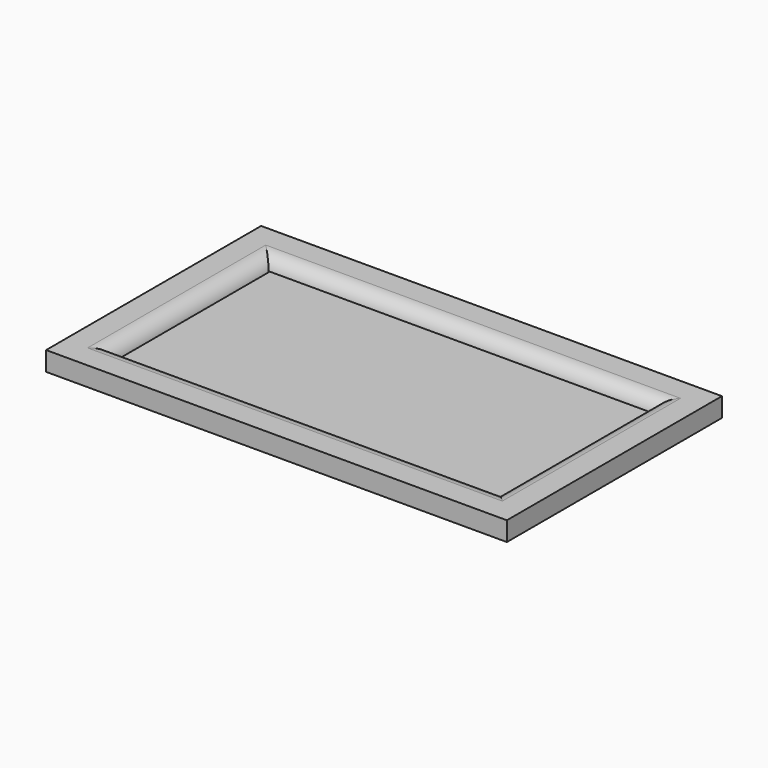
from build123d import *

# Parameters (mm, degrees)
F0_W     = 12.7
F0_H     = 12.7
F0_H_2   = 63.5
F0_W_2   = 127
F1_DEPTH = 6.35
F2_W     = 126.1163949966
F2_H     = 63.1982386112
F3_DEPTH = 2.54
F4_R     = 5.08
F5_R     = 5.08
F6_R     = 5.08
F7_R     = 5.08


with BuildPart() as f1:
    # F0 (on Top) → F1 (new body)
    with BuildSketch(Plane.XY):
        with Locations((-69.85, -38.1)):
            Rectangle(F0_W, F0_H)
        Polygon((-63.5, -31.75), (-63.5, -44.45), (76.2, -44.45), (76.2, -31.75), (63.5, -31.75), align=None)
        with Locations((-69.85, 0)):
            Rectangle(F0_W, F0_H_2)
        with Locations((69.85, 0)):
            Rectangle(F0_W, F0_H_2)
        with Locations((-69.85, 38.1)):
            Rectangle(F0_W, F0_H)
        with Locations((0, 38.1)):
            Rectangle(F0_W_2, F0_H)
        with Locations((69.85, 38.1)):
            Rectangle(F0_W, F0_H)
    extrude(amount=F1_DEPTH)

    # F4
    f4_edges = [f1.edges().sort_by_distance(p)[0] for p in [
        (0, 31.75, 6.35),
    ]]
    fillet(f4_edges, radius=F4_R)

    # F5
    f5_edges = [f1.edges().sort_by_distance(p)[0] for p in [
        (63.5, 0, 6.35),
    ]]
    fillet(f5_edges, radius=F5_R)

    # F6
    f6_edges = [f1.edges().sort_by_distance(p)[0] for p in [
        (0, -31.75, 6.35),
    ]]
    fillet(f6_edges, radius=F6_R)

    # F7
    f7_edges = [f1.edges().sort_by_distance(p)[0] for p in [
        (-63.5, 0, 6.35),
    ]]
    fillet(f7_edges, radius=F7_R)


with BuildPart() as f3:
    # F2 (on Top) → F3 (new body)
    with BuildSketch(Plane.XY):
        Rectangle(F2_W, F2_H)
    extrude(amount=F3_DEPTH)


solid = Compound([f1.part, f3.part])
